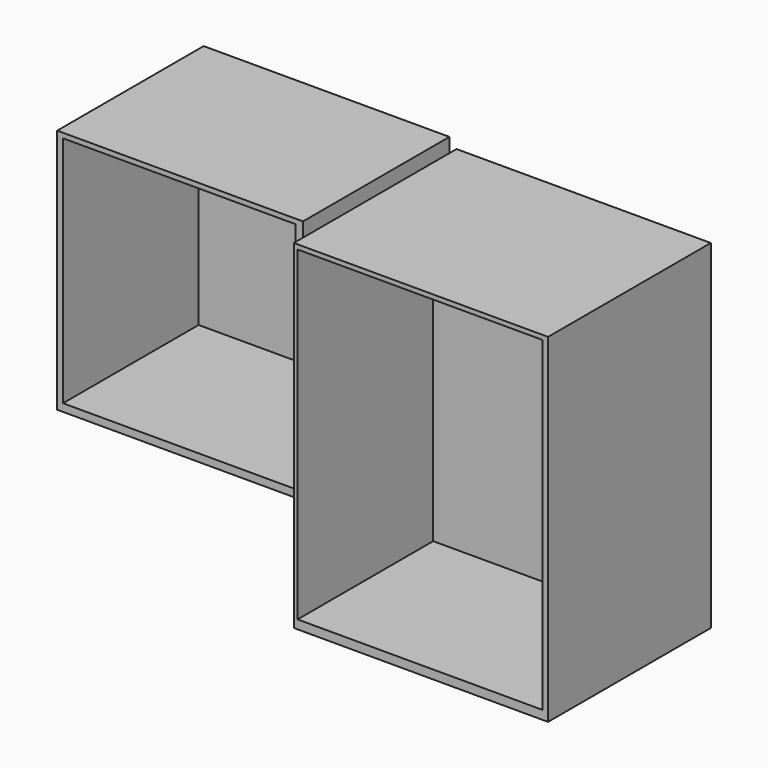
from build123d import *

# Parameters (mm, degrees)
F0_W     = 92.075
F0_H     = 92.075
F1_DEPTH = 68.58
F2_W     = 87.015483
F2_H     = 87.384192
F3_DEPTH = 63.5
F4_W     = 95.25
F4_H     = 127
F5_DEPTH = 76.2
F6_W     = 91.671831
F6_H     = 122.019019
F7_DEPTH = 63.5


with BuildPart() as f1:
    # F0 (on Front) → F1 (new body)
    with BuildSketch(Plane.XZ):
        with Locations((-35.672663, 20.041113)):
            Rectangle(F0_W, F0_H)
    extrude(amount=F1_DEPTH)

    # F2 (on face) → F3 (cut)
    with BuildSketch(Plane.XZ.offset(68.58)):
        with Locations((-36.031126, 20.555564)):
            Rectangle(F2_W, F2_H)
    extrude(amount=-F3_DEPTH, mode=Mode.SUBTRACT)


with BuildPart() as f5:
    # F4 (on Front) → F5 (new body)
    with BuildSketch(Plane.XZ):
        with Locations((60.665718, -0.570852)):
            Rectangle(F4_W, F4_H)
    extrude(amount=F5_DEPTH)

    # F6 (on face) → F7 (cut)
    with BuildSketch(Plane.XZ.offset(76.2)):
        with Locations((60.276483, 0.229007)):
            Rectangle(F6_W, F6_H)
    extrude(amount=-F7_DEPTH, mode=Mode.SUBTRACT)


solid = Compound([f1.part, f5.part])
